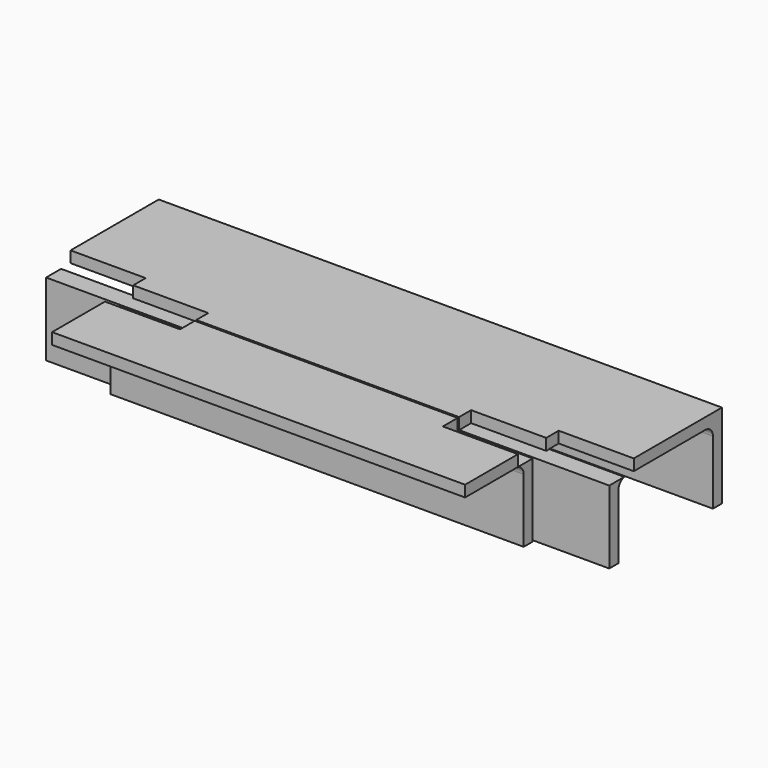
from build123d import *

# Parameters (mm, degrees)
F2_DEPTH      = 150
F2_DEPTH_BACK = 150
F5_DEPTH      = 110
F5_DEPTH_BACK = 110
F7_DEPTH      = 6.1
F8_W          = 40
F8_H          = 9.8
F9_DEPTH      = 6


with BuildPart() as f2:
    # F1 (on Right) → F2 (new body, two sides)
    with BuildSketch(Plane.YZ) as f2_sk:
        with BuildLine():
            Line((75, 0), (0, 0))
            Line((0, 0), (0, -45))
            Line((0, -45), (6, -45))
            Line((6, -45), (6, -11))
            ThreePointArc((6, -11), (7.464466, -7.464466), (11, -6))
            Line((11, -6), (64, -6))
            ThreePointArc((64, -6), (67.535534, -7.464466), (69, -11))
            Line((69, -11), (69, -45))
            Line((69, -45), (75, -45))
            Line((75, -45), (75, 0))
        make_face()
    extrude(amount=F2_DEPTH)
    extrude(f2_sk.sketch, amount=-F2_DEPTH_BACK)

    # F6 (on face) → F7 (cut)
    with BuildSketch(Plane.XY):
        Polygon((-150, 16.3), (-150, 0), (-110, 0), (-70, 0), (-70, 8), (-110, 8), (-110, 16.3), align=None)
        Polygon((110, 0), (150, 0), (150, 16.3), (110, 16.3), (110, 8), (70, 8), (70, 0), align=None)
    extrude(amount=-F7_DEPTH, mode=Mode.SUBTRACT)


with BuildPart() as f5:
    # F4 (on Right) → F5 (new body, two sides)
    with BuildSketch(Plane.YZ) as f5_sk:
        with BuildLine():
            Line((-1, -45), (-1, 0))
            Line((-1, 0), (-46, 0))
            Line((-46, 0), (-46, -6))
            Line((-46, -6), (-12, -6))
            ThreePointArc((-12, -6), (-8.464466, -7.464466), (-7, -11))
            Line((-7, -11), (-7, -45))
            Line((-7, -45), (-1, -45))
        make_face()
    extrude(amount=F5_DEPTH)
    extrude(f5_sk.sketch, amount=-F5_DEPTH_BACK)

    # F8 (on face) → F9 (cut)
    with BuildSketch(Plane.XY):
        with Locations((-90, -5.9)):
            Rectangle(F8_W, F8_H)
        with Locations((90, -5.9)):
            Rectangle(F8_W, F8_H)
    extrude(amount=-F9_DEPTH, mode=Mode.SUBTRACT)


solid = Compound([f2.part, f5.part])
